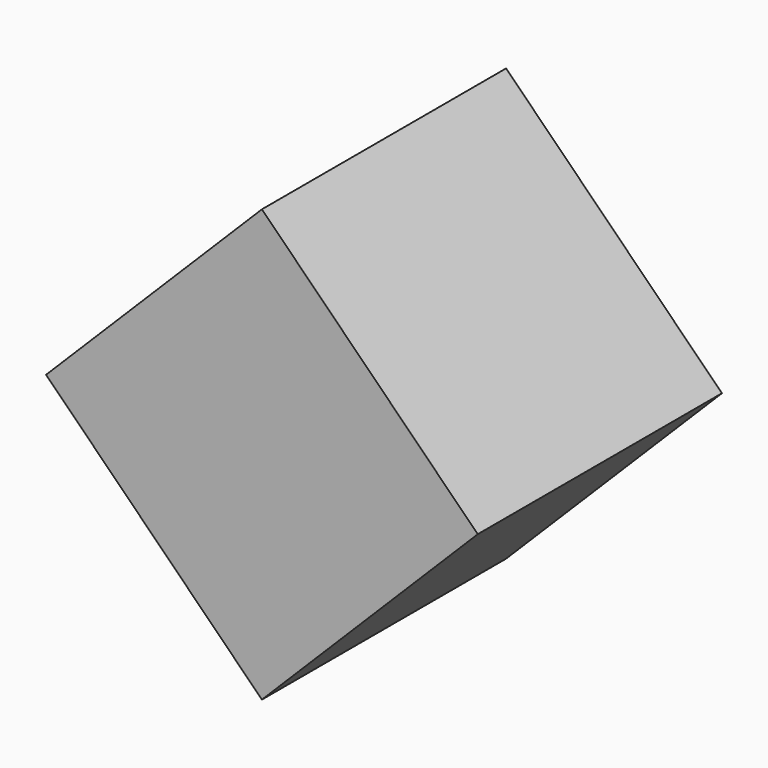
from build123d import *

# Parameters (mm, degrees)
BOX_W               = 10
BOX_H               = 10
BOX_DEPTH           = 10
BOX_PLACEMENT_ANGLE = 45


with BuildPart() as part:
    # Box → Box (new body)
    with BuildSketch(Plane.XY):
        with Locations((5, 5)):
            Rectangle(BOX_W, BOX_H)
    extrude(amount=BOX_DEPTH)


with BuildPart() as part_1:
    # Box placement: moved
    add(part.part.rotate(Axis((0, 0, 0), (0, 1, 0)), BOX_PLACEMENT_ANGLE))


solid = part_1.part
